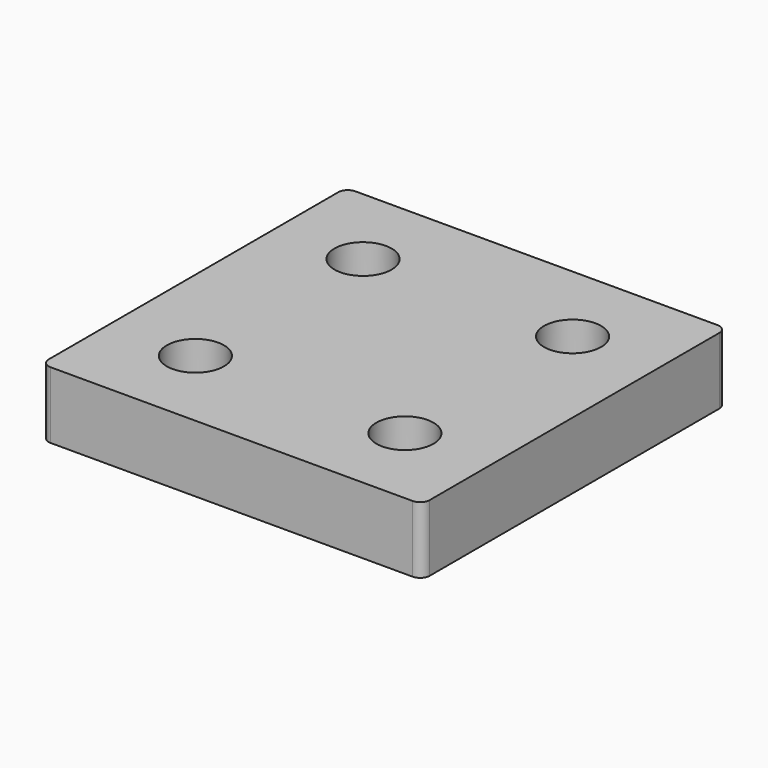
from build123d import *

# Parameters (mm, degrees)
F0_W     = 40
F0_H     = 40
F0_R     = 3
F1_DEPTH = 7
F2_R     = 1


with BuildPart() as f1:
    # F0 (on Top) → F1 (new body)
    with BuildSketch(Plane.XY):
        with Locations((20, 20)):
            Rectangle(F0_W, F0_H)
        with Locations((9, 9)):
            Circle(F0_R, mode=Mode.SUBTRACT)
        with Locations((31, 9)):
            Circle(F0_R, mode=Mode.SUBTRACT)
        with Locations((9, 31)):
            Circle(F0_R, mode=Mode.SUBTRACT)
        with Locations((31, 31)):
            Circle(F0_R, mode=Mode.SUBTRACT)
    extrude(amount=F1_DEPTH)

    # F2
    f2_edges = [f1.edges().sort_by_distance(p)[0] for p in [
        (40, 0, 3.5),
        (40, 40, 3.5),
        (0, 0, 3.5),
        (0, 40, 3.5),
    ]]
    fillet(f2_edges, radius=F2_R)


solid = f1.part
